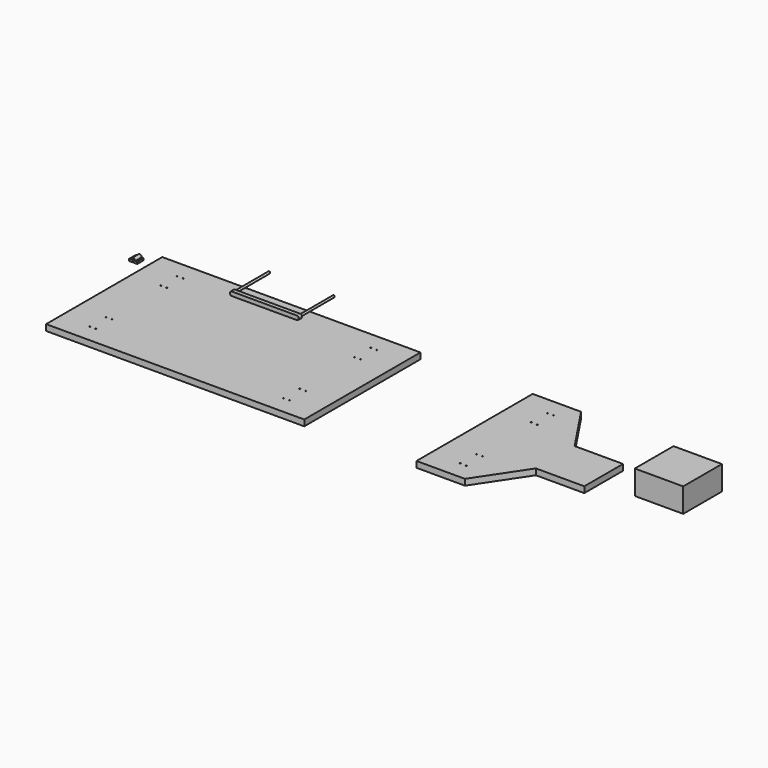
from build123d import *

# Parameters (mm, degrees)
F0_W      = 406.4
F0_H      = 228.6
F1_DEPTH  = 9.525
F3_DEPTH  = 9.525
F4_R      = 1.5875
F5_DEPTH  = 6.35
F6_R      = 1.6419743879
F6_R_2    = 1.5875
F7_DEPTH  = 73.025
F8_R      = 1.5875
F9_DEPTH  = 12.7
F10_R     = 0.79375
F10_R_2   = 0.8001
F11_DEPTH = 74.9276538282
F12_R     = 0.8001
F13_DEPTH = 78.1026538282
F14_R     = 0.8001
F15_DEPTH = 78.1026538282
F16_W     = 76.2
F16_H     = 76.2
F17_DEPTH = 38.1


with BuildPart() as f1:
    # F0 (on Top) → F1 (new body)
    with BuildSketch(Plane.XY):
        Rectangle(F0_W, F0_H)
    extrude(amount=-F1_DEPTH)

    # F12 (on face) → F13 (cut, through all)
    with BuildSketch(Plane(origin=(0, 0, -9.525), x_dir=(1, 0, 0), z_dir=(0, 0, -1))):
        with Locations((157.1498, 85.725)):
            Circle(F12_R)
        with Locations((147.6502, 85.725)):
            Circle(F12_R)
        with Locations((-147.6502, 85.725)):
            Circle(F12_R)
        with Locations((-157.1498, 85.725)):
            Circle(F12_R)
        with Locations((147.6502, -85.725)):
            Circle(F12_R)
        with Locations((157.1498, -85.725)):
            Circle(F12_R)
        with Locations((-147.6502, -85.725)):
            Circle(F12_R)
        with Locations((-157.1498, -85.725)):
            Circle(F12_R)
        with Locations((147.7204012539, 53.975)):
            Circle(F12_R)
        with Locations((157.2200012539, 53.975)):
            Circle(F12_R)
        with Locations((147.7204012539, -53.975)):
            Circle(F12_R)
        with Locations((157.2200012539, -53.975)):
            Circle(F12_R)
        with Locations((-147.7204012539, -53.975)):
            Circle(F12_R)
        with Locations((-157.2200012539, -53.975)):
            Circle(F12_R)
        with Locations((-147.7204012539, 53.975)):
            Circle(F12_R)
        with Locations((-157.2200012539, 53.975)):
            Circle(F12_R)
    extrude(amount=-F13_DEPTH, mode=Mode.SUBTRACT)


with BuildPart() as f3:
    # F2 (on Top) → F3 (new body)
    with BuildSketch(Plane.XY):
        Polygon((379.8870294891, 114.3), (379.8870294891, -114.3), (456.0870294891, -114.3), (506.8870294891, -38.1), (583.0870294891, -38.1), (583.0870294891, 38.1), (506.8870294891, 38.1), (456.0870294891, 114.3), align=None)
    extrude(amount=-F3_DEPTH)

    # F14 (on face) → F15 (cut, through all)
    with BuildSketch(Plane(origin=(0, 0, -9.525), x_dir=(1, 0, 0), z_dir=(0, 0, -1))):
        with Locations((425.9372294891, 85.725)):
            Circle(F14_R)
        with Locations((435.4368294891, 85.725)):
            Circle(F14_R)
        with Locations((425.9372294891, -85.725)):
            Circle(F14_R)
        with Locations((435.4368294891, -85.725)):
            Circle(F14_R)
        with Locations((425.9372294891, 53.975)):
            Circle(F14_R)
        with Locations((435.4368294891, 53.975)):
            Circle(F14_R)
        with Locations((435.4368294891, -53.975)):
            Circle(F14_R)
        with Locations((425.9372294891, -53.975)):
            Circle(F14_R)
    extrude(amount=-F15_DEPTH, mode=Mode.SUBTRACT)


with BuildPart() as f5:
    # F4 (on Front) → F5 (new body)
    with BuildSketch(Plane.XZ):
        with BuildLine():
            Line((105.41, 68.3142677468), (2.54, 68.3142677468))
            ThreePointArc((2.54, 68.3142677468), (0.7439487758, 67.570318971), (0, 65.7742677468))
            Line((0, 65.7742677468), (0, 64.5042677468))
            ThreePointArc((0, 64.5042677468), (0.7439487758, 62.7082165226), (2.54, 61.9642677468))
            Line((2.54, 61.9642677468), (105.41, 61.9642677468))
            ThreePointArc((105.41, 61.9642677468), (107.2060512242, 62.7082165226), (107.95, 64.5042677468))
            Line((107.95, 64.5042677468), (107.95, 65.7742677468))
            ThreePointArc((107.95, 65.7742677468), (107.2060512242, 67.570318971), (105.41, 68.3142677468))
        make_face()
        with Locations((3.175, 65.1392677468)):
            Circle(F4_R, mode=Mode.SUBTRACT)
        with Locations((104.775, 65.1392677468)):
            Circle(F4_R, mode=Mode.SUBTRACT)
    extrude(amount=F5_DEPTH)

    # F6 (on face) → F7 (join)
    with BuildSketch(Plane.XZ.offset(6.35)):
        with Locations((3.175, 65.1392677468)):
            Circle(F6_R)
        with Locations((104.775, 65.1392677468)):
            Circle(F6_R_2)
    extrude(amount=-F7_DEPTH)


with BuildPart() as f9:
    # F8 (on Front) → F9 (new body)
    with BuildSketch(Plane.XZ):
        with BuildLine():
            Line((-140.9233872175, 65.4016538282), (-144.0983872175, 65.4016538282))
            ThreePointArc((-144.0983872175, 65.4016538282), (-147.2733872175, 68.5766538282), (-150.4483872175, 65.4016538282))
            Line((-150.4483872175, 65.4016538282), (-153.6233872175, 65.4016538282))
            Line((-153.6233872175, 65.4016538282), (-153.6233872175, 62.2139538282))
            Line((-153.6233872175, 62.2139538282), (-140.9233872175, 62.2139538282))
            Line((-140.9233872175, 62.2139538282), (-140.9233872175, 65.4016538282))
        make_face()
        with Locations((-147.2733872175, 65.4016538282)):
            Circle(F8_R, mode=Mode.SUBTRACT)
    extrude(amount=F9_DEPTH)

    # F10 (on face) → F11 (cut, through all)
    with BuildSketch(Plane.XY.offset(65.4016538282)):
        with Locations((-152.0231872175, -6.35)):
            Circle(F10_R)
        with Locations((-142.5235872175, -6.35)):
            Circle(F10_R_2)
    extrude(amount=-F11_DEPTH, mode=Mode.SUBTRACT)


with BuildPart() as f17:
    # F16 (on Top) → F17 (new body)
    with BuildSketch(Plane.XY):
        with Locations((685.8072578907, 18.5436561204)):
            Rectangle(F16_W, F16_H)
    extrude(amount=F17_DEPTH)


solid = Compound([f1.part, f3.part, f5.part, f9.part, f17.part])
